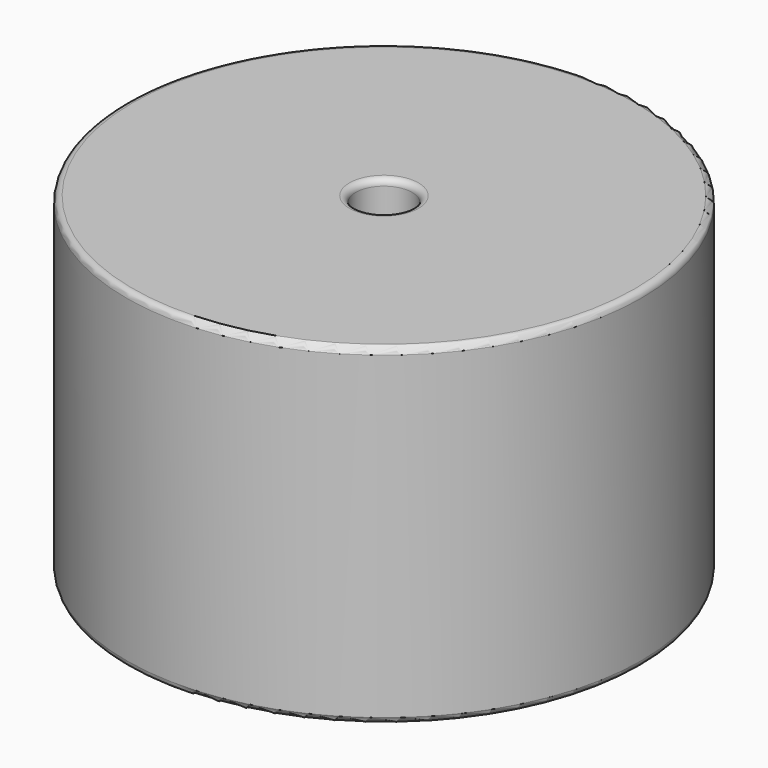
from build123d import *

# Parameters (mm, degrees)
SKETCH001_R       = 0.95
PAD001_DEPTH      = 13.08
PAD001_DEPTH_BACK = 3.5
SKETCH_R          = 20.32
SKETCH_R_2        = 2.225
PAD_DEPTH         = 26.16
FILLET_R          = 0.5


with BuildPart() as pad001:
    # Sketch001 → Pad001 (new body, two sides)
    with BuildSketch(Plane.XY.offset(0.5)) as pad001_sk:
        Circle(SKETCH001_R)
        with Locations((27.94, 0)):
            Circle(SKETCH001_R)
    extrude(amount=PAD001_DEPTH)
    extrude(pad001_sk.sketch, amount=-PAD001_DEPTH_BACK)


with BuildPart() as fillet_body:
    # Sketch → Pad (new body)
    with BuildSketch(Plane.XY.offset(0.1)):
        with Locations((13.97, 0)):
            Circle(SKETCH_R)
        with Locations((13.97, 0)):
            Circle(SKETCH_R_2, mode=Mode.SUBTRACT)
    extrude(amount=PAD_DEPTH)

    # Fillet
    fillet_edges = [fillet_body.edges().sort_by_distance(p)[0] for p in [
        (11.745, 0, 26.26),
        (-6.35, 0, 26.26),
        (-6.35, 0, 0.1),
    ]]
    fillet(fillet_edges, radius=FILLET_R)


solid = Compound([pad001.part, fillet_body.part])
